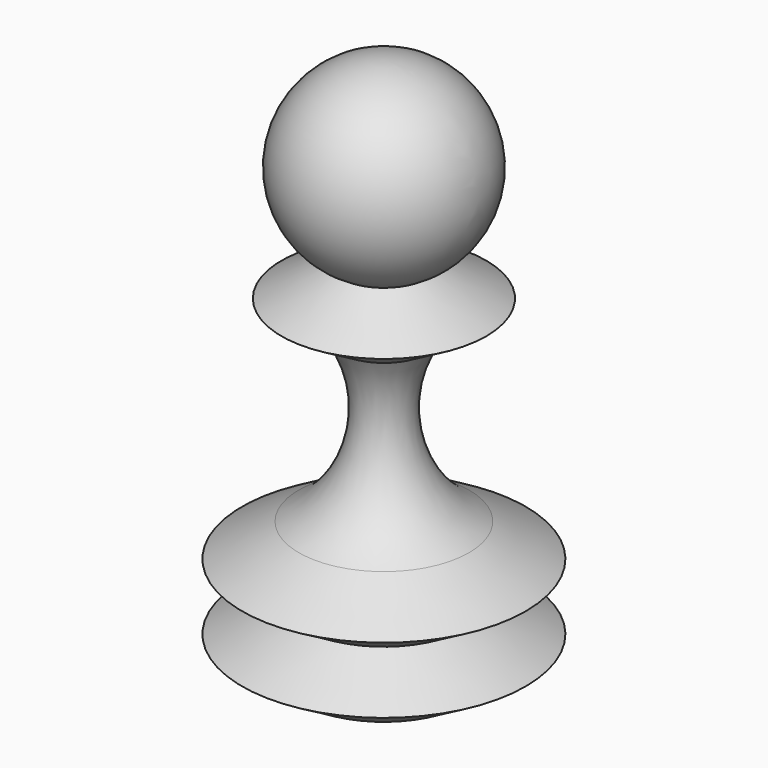
from build123d import *


with BuildPart() as f1:
    # F0 (on Front) → F1 (revolve)
    with BuildSketch(Plane.XZ):
        with BuildLine():
            Line((0, 57.020247), (0, 0))
            Line((0, 0), (9, 0))
            Line((9, 0), (15, 3.5))
            Line((15, 3.5), (9, 7))
            Line((9, 7), (15, 10.5))
            Line((15, 10.5), (9, 14))
            ThreePointArc((9, 14), (3.236656, 21.745631), (4.835254, 31.266944))
            Line((4.835254, 31.266944), (10.835254, 34.766944))
            Line((10.835254, 34.766944), (4.835254, 38.266944))
            ThreePointArc((4.835254, 38.266944), (9.683311, 49.516942), (0, 57.020247))
        make_face()
    revolve(axis=Axis((0, 0, 28.510124), (0, 0, -1)))


solid = f1.part
